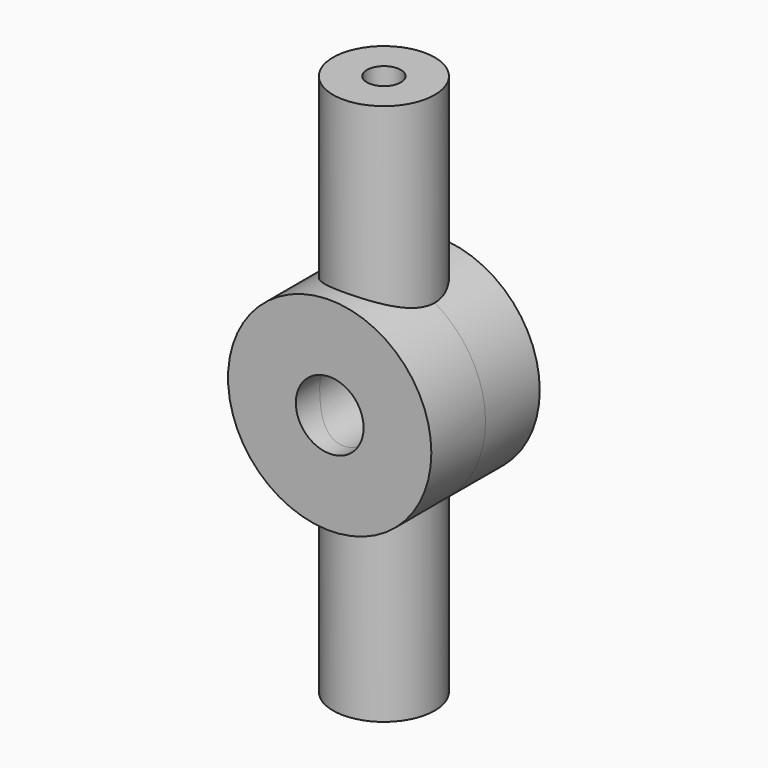
from build123d import *

# Parameters (mm, degrees)
F0_R          = 1.5
F1_DEPTH      = 16
F2_R          = 0.5
F3_DEPTH      = 2
F4_R          = 0.5
F5_DEPTH      = 2
F6_R          = 3
F6_R_2        = 1
F7_DEPTH      = 2
F7_DEPTH_BACK = 2
F8_R          = 1
F9_DEPTH      = 2
F9_DEPTH_BACK = 2


with BuildPart() as f1:
    # F0 (on Top) → F1 (new body)
    with BuildSketch(Plane.XY):
        Circle(F0_R)
    extrude(amount=F1_DEPTH)

    # F2 (on face) → F3 (cut)
    with BuildSketch(Plane.XY.offset(16)):
        Circle(F2_R)
    extrude(amount=-F3_DEPTH, mode=Mode.SUBTRACT)

    # F4 (on face) → F5 (cut)
    with BuildSketch(Plane(origin=(0, 0, 0), x_dir=(1, 0, 0), z_dir=(0, 0, -1))):
        Circle(F4_R)
    extrude(amount=-F5_DEPTH, mode=Mode.SUBTRACT)

    # F6 (on Front) → F7 (join, two sides)
    with BuildSketch(Plane.XZ) as f7_sk:
        with Locations((0, 8)):
            Circle(F6_R)
        with Locations((0, 8)):
            Circle(F6_R_2, mode=Mode.SUBTRACT)
    extrude(amount=F7_DEPTH)
    extrude(f7_sk.sketch, amount=-F7_DEPTH_BACK)

    # F8 (on Front) → F9 (cut, two sides)
    with BuildSketch(Plane.XZ) as f9_sk:
        with Locations((0, 8)):
            Circle(F8_R)
    extrude(amount=-F9_DEPTH, mode=Mode.SUBTRACT)
    extrude(f9_sk.sketch, amount=F9_DEPTH_BACK, mode=Mode.SUBTRACT)


solid = f1.part
